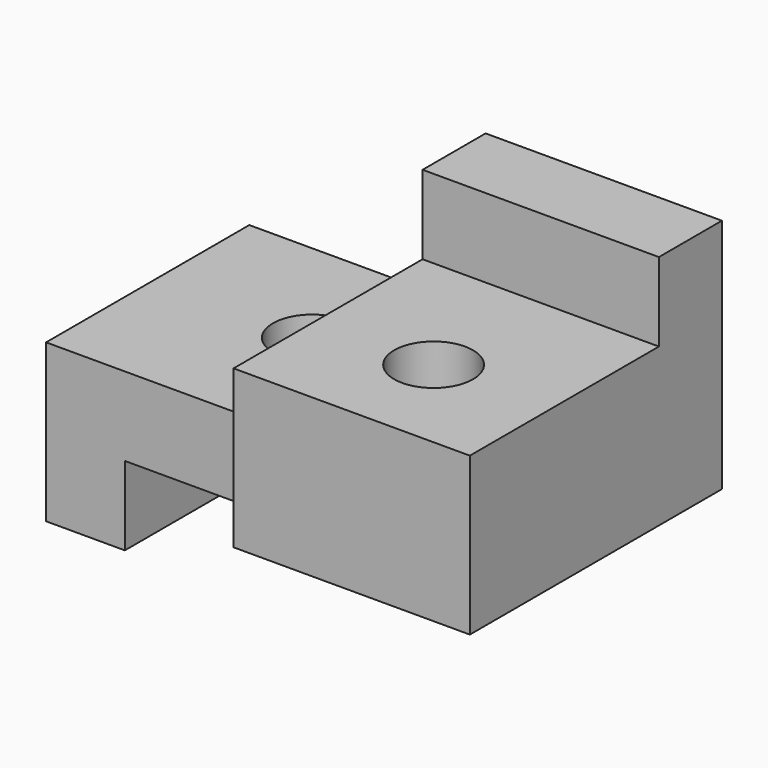
from build123d import *

# Parameters (mm, degrees)
F1_DEPTH = 25.4
F2_W     = 19.05
F2_H     = 4.923508
F3_DEPTH = 25.4
F4_R     = 3.175
F5_DEPTH = 12.701
F6_R     = 3.175
F7_DEPTH = 25.4
F8_W     = 19.05
F8_H     = 19.05
F9_DEPTH = 6.35


with BuildPart() as f1:
    # F0 (on Front) → F1 (new body)
    with BuildSketch(Plane.XZ):
        Polygon((-24.8282, 12.7), (-24.8282, 0), (-18.4782, 0), (-18.4782, 6.35), (13.2718, 6.35), (13.2718, 25.4), (-5.7782, 25.4), (-5.7782, 12.7), align=None)
    extrude(amount=F1_DEPTH)

    # F2 (on face) → F3 (cut)
    with BuildSketch(Plane.XY.offset(12.7)):
        with Locations((-15.3032, -22.938246)):
            Rectangle(F2_W, F2_H)
    extrude(amount=-F3_DEPTH, mode=Mode.SUBTRACT)

    # F4 (on face) → F5 (cut, through all)
    with BuildSketch(Plane.XY.offset(12.7)):
        with Locations((-12.1282, -9.525)):
            Circle(F4_R)
    extrude(amount=-F5_DEPTH, mode=Mode.SUBTRACT)

    # F6 (on face) → F7 (cut)
    with BuildSketch(Plane.XY.offset(25.4)):
        with Locations((3.7468, -17.145)):
            Circle(F6_R)
    extrude(amount=-F7_DEPTH, mode=Mode.SUBTRACT)

    # F8 (on face) → F9 (cut)
    with BuildSketch(Plane.XY.offset(25.4)):
        with Locations((3.7468, -15.875)):
            Rectangle(F8_W, F8_H)
    extrude(amount=-F9_DEPTH, mode=Mode.SUBTRACT)


solid = f1.part
